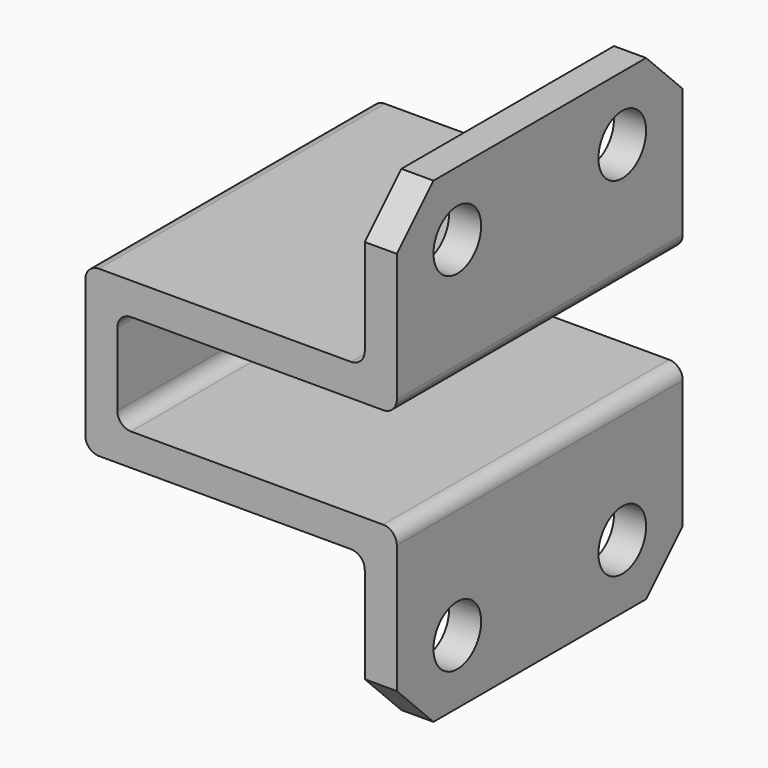
from build123d import *

# Parameters (mm, degrees)
F1_DEPTH = 78
F2_R     = 6.5
F3_DEPTH = 25


with BuildPart() as f1:
    # F0 (on Front) → F1 (new body)
    with BuildSketch(Plane.XZ):
        with BuildLine():
            Line((0, 50.157899), (0, 88.157899))
            Line((0, 88.157899), (-7, 88.157899))
            Line((-7, 88.157899), (-7, 57.157899))
            ThreePointArc((-7, 57.157899), (-7.87868, 55.036578), (-10, 54.157899))
            Line((-10, 54.157899), (-65, 54.157899))
            ThreePointArc((-65, 54.157899), (-67.12132, 53.279219), (-68, 51.157899))
            Line((-68, 51.157899), (-68, 21.157899))
            ThreePointArc((-68, 21.157899), (-67.12132, 19.036578), (-65, 18.157899))
            Line((-65, 18.157899), (-10, 18.157899))
            ThreePointArc((-10, 18.157899), (-7.87868, 17.279219), (-7, 15.157899))
            Line((-7, 15.157899), (-7, -15.842101))
            Line((-7, -15.842101), (0, -15.842101))
            Line((0, -15.842101), (0, 22.157899))
            ThreePointArc((0, 22.157899), (-0.87868, 24.279219), (-3, 25.157899))
            Line((-3, 25.157899), (-58, 25.157899))
            ThreePointArc((-58, 25.157899), (-60.12132, 26.036578), (-61, 28.157899))
            Line((-61, 28.157899), (-61, 44.157899))
            ThreePointArc((-61, 44.157899), (-60.12132, 46.279219), (-58, 47.157899))
            Line((-58, 47.157899), (-3, 47.157899))
            ThreePointArc((-3, 47.157899), (-0.87868, 48.036578), (0, 50.157899))
        make_face()
    extrude(amount=F1_DEPTH)

    # F2 (on face) → F3 (cut)
    with BuildSketch(Plane(origin=(-7, 0, 0), x_dir=(0, -1, 0), z_dir=(-1, 0, 0))):
        with Locations((61.5, 74.157899)):
            Circle(F2_R)
        with Locations((16.5, 74.157899)):
            Circle(F2_R)
        with Locations((16.5, -1.842101)):
            Circle(F2_R)
        with Locations((61.5, -1.842101)):
            Circle(F2_R)
        Polygon((78, 88.157899), (68, 88.157899), (78, 78.157899), align=None)
        Polygon((0, 88.157899), (0, 78.157899), (10, 88.157899), align=None)
        Polygon((78, -5.842101), (68, -15.842101), (78, -15.842101), align=None)
        Polygon((0, -15.842101), (10, -15.842101), (0, -5.842101), align=None)
    extrude(amount=-F3_DEPTH, mode=Mode.SUBTRACT)


solid = f1.part
